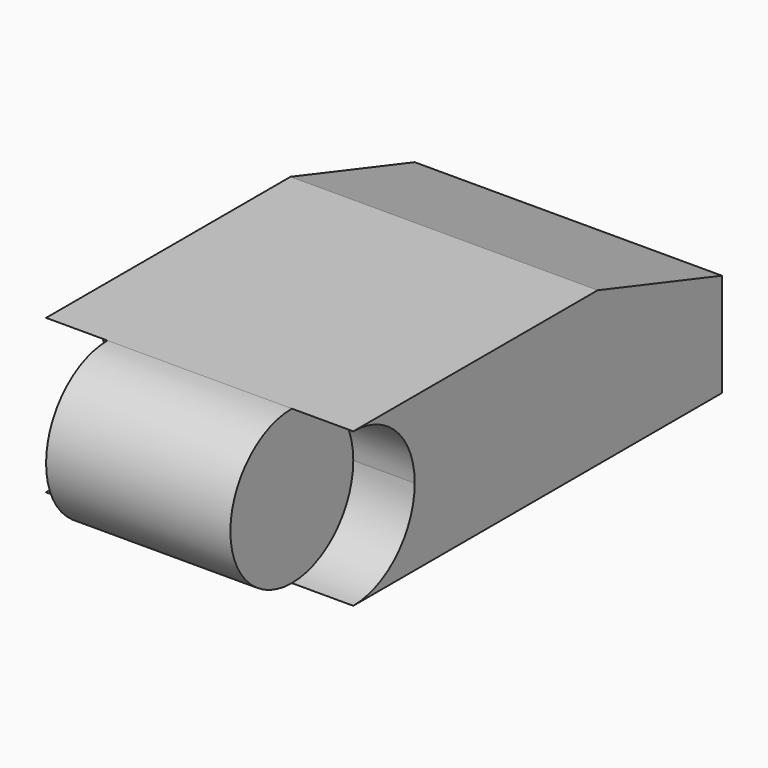
from build123d import *

# Parameters (mm, degrees)
F1_DEPTH = 12.7
F2_DEPTH = 7.62


with BuildPart() as f1:
    # F0 (on Right) → F1 (new body, symmetric)
    with BuildSketch(Plane.YZ):
        with BuildLine():
            Line((19.05, 2.192055), (6.210823, 6.35))
            Line((6.210823, 6.35), (-19.05, 6.35))
            ThreePointArc((-19.05, 6.35), (-14.559872, 4.490128), (-12.7, 0))
            ThreePointArc((-12.7, 0), (-14.559872, -4.490128), (-19.05, -6.35))
            Line((-19.05, -6.35), (10.473152, -6.35))
            Line((10.473152, -6.35), (19.05, -6.35))
            Line((19.05, -6.35), (19.05, 2.192055))
        make_face()
        with BuildLine():
            Line((19.05, 2.192055), (6.210823, 6.35))
            Line((6.210823, 6.35), (-19.05, 6.35))
            ThreePointArc((-19.05, 6.35), (-14.559872, 4.490128), (-12.7, 0))
            ThreePointArc((-12.7, 0), (-14.559872, -4.490128), (-19.05, -6.35))
            Line((-19.05, -6.35), (10.473152, -6.35))
            Line((10.473152, -6.35), (19.05, -6.35))
            Line((19.05, -6.35), (19.05, 2.192055))
        make_face()
    extrude(amount=F1_DEPTH, both=True)

    # F0 (on Right) → F2 (join, symmetric)
    with BuildSketch(Plane.YZ):
        with BuildLine():
            ThreePointArc((-12.7, 0), (-14.559872, 4.490128), (-19.05, 6.35))
            Line((-19.05, 6.35), (-19.05, -6.35))
            ThreePointArc((-19.05, -6.35), (-14.559872, -4.490128), (-12.7, 0))
        make_face()
        with BuildLine():
            Line((-19.05, -6.35), (-19.05, 6.35))
            ThreePointArc((-19.05, 6.35), (-25.4, 0), (-19.05, -6.35))
        make_face()
    extrude(amount=F2_DEPTH, both=True)


solid = f1.part
